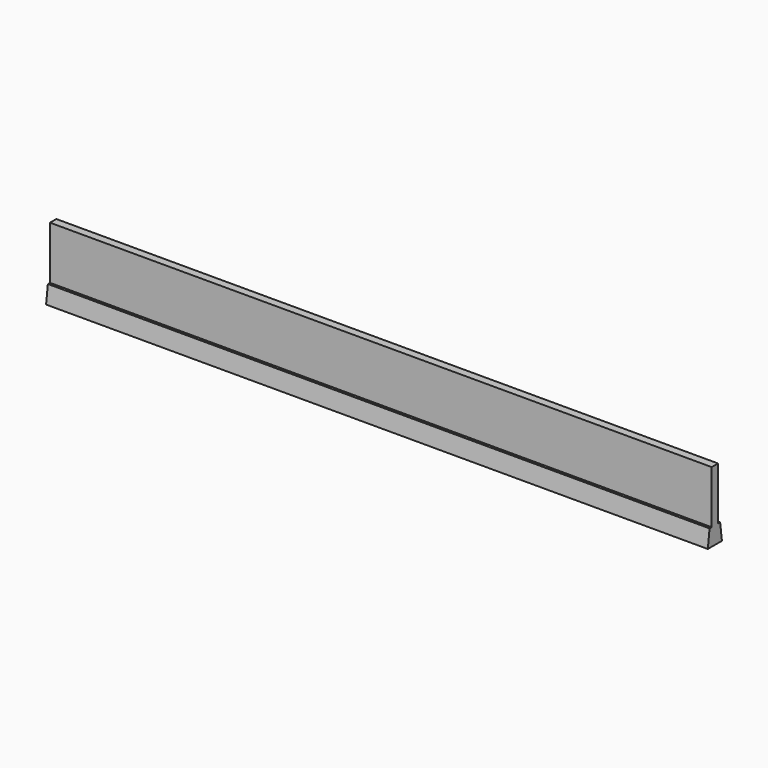
from build123d import *

# Parameters (mm, degrees)
F0_W     = 1.8
F0_H     = 12
F1_DEPTH = 150


with BuildPart() as f1:
    # F0 (on Right) → F1 (new body)
    with BuildSketch(Plane.YZ):
        Rectangle(F0_W, F0_H)
        Polygon((1.5, -6), (0.9, -6), (-0.9, -6), (-1.5, -6), (-2, -9.9), (2, -9.9), align=None)
    extrude(amount=F1_DEPTH)


solid = f1.part
